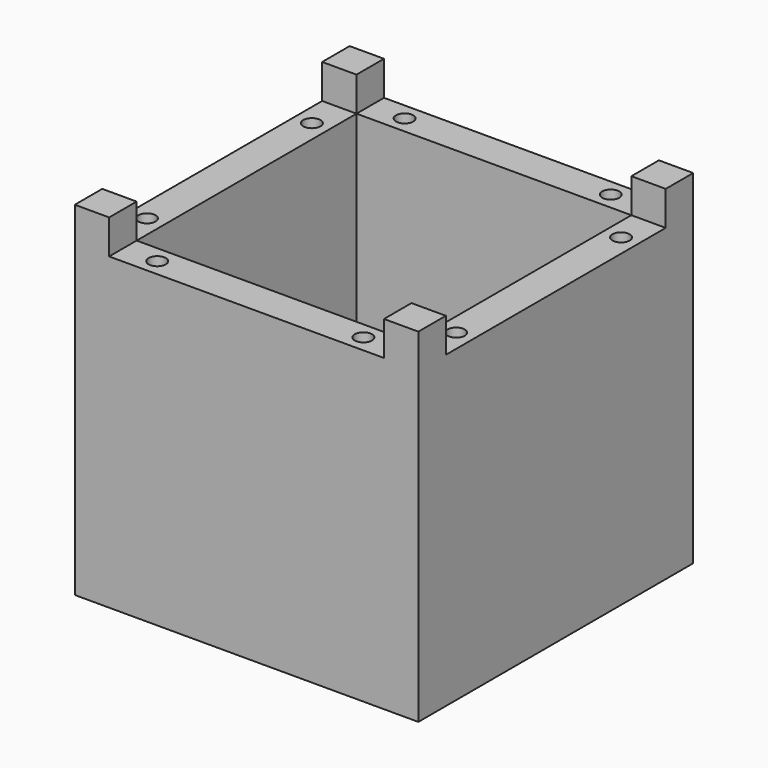
from build123d import *

# Parameters (mm, degrees)
F0_W     = 20.32
F0_H     = 20.32
F1_DEPTH = 2.54
F0_W_2   = 2.54
F0_H_2   = 2.54
F2_DEPTH = 22.86
F3_DEPTH = 25.4
F4_R     = 0.635
F5_DEPTH = 25.4
F6_DEPTH = 20.32


with BuildPart() as f1:
    # F0 (on Top) → F1 (new body)
    with BuildSketch(Plane.XY):
        Rectangle(F0_W, F0_H)
    extrude(amount=F1_DEPTH)

    # F0 (on Top) → F2 (join)
    with BuildSketch(Plane.XY):
        with Locations((-11.43, 0)):
            Rectangle(F0_W_2, F0_H)
        with Locations((-11.43, 11.43)):
            Rectangle(F0_W_2, F0_H_2)
        with Locations((0, 11.43)):
            Rectangle(F0_W, F0_H_2)
        with Locations((11.43, 11.43)):
            Rectangle(F0_W_2, F0_H_2)
        with Locations((11.43, 0)):
            Rectangle(F0_W_2, F0_H)
        with Locations((11.43, -11.43)):
            Rectangle(F0_W_2, F0_H_2)
        with Locations((0, -11.43)):
            Rectangle(F0_W, F0_H_2)
        with Locations((-11.43, -11.43)):
            Rectangle(F0_W_2, F0_H_2)
    extrude(amount=F2_DEPTH)

    # F0 (on Top) → F3 (join)
    with BuildSketch(Plane.XY):
        with Locations((-11.43, -11.43)):
            Rectangle(F0_W_2, F0_H_2)
        with Locations((11.43, -11.43)):
            Rectangle(F0_W_2, F0_H_2)
        with Locations((11.43, 11.43)):
            Rectangle(F0_W_2, F0_H_2)
        with Locations((-11.43, 11.43)):
            Rectangle(F0_W_2, F0_H_2)
    extrude(amount=F3_DEPTH)

    # F4 (on Top) → F5 (cut)
    with BuildSketch(Plane.XY):
        with Locations((-7.62, -11.43)):
            Circle(F4_R)
        with Locations((7.62, -11.43)):
            Circle(F4_R)
        with Locations((11.43, -7.62)):
            Circle(F4_R)
        with Locations((11.43, 7.62)):
            Circle(F4_R)
        with Locations((7.62, 11.43)):
            Circle(F4_R)
        with Locations((-7.62, 11.43)):
            Circle(F4_R)
        with Locations((-11.43, 7.62)):
            Circle(F4_R)
        with Locations((-11.43, -7.62)):
            Circle(F4_R)
    extrude(amount=F5_DEPTH, mode=Mode.SUBTRACT)

    # F0 (on Top) → F6 (join)
    with BuildSketch(Plane.XY):
        with Locations((11.43, -11.43)):
            Rectangle(F0_W_2, F0_H_2)
        with Locations((0, -11.43)):
            Rectangle(F0_W, F0_H_2)
        with Locations((11.43, 0)):
            Rectangle(F0_W_2, F0_H)
        with Locations((-11.43, -11.43)):
            Rectangle(F0_W_2, F0_H_2)
        with Locations((11.43, 11.43)):
            Rectangle(F0_W_2, F0_H_2)
        with Locations((-11.43, 0)):
            Rectangle(F0_W_2, F0_H)
        with Locations((0, 11.43)):
            Rectangle(F0_W, F0_H_2)
        with Locations((-11.43, 11.43)):
            Rectangle(F0_W_2, F0_H_2)
    extrude(amount=F6_DEPTH)


solid = f1.part
